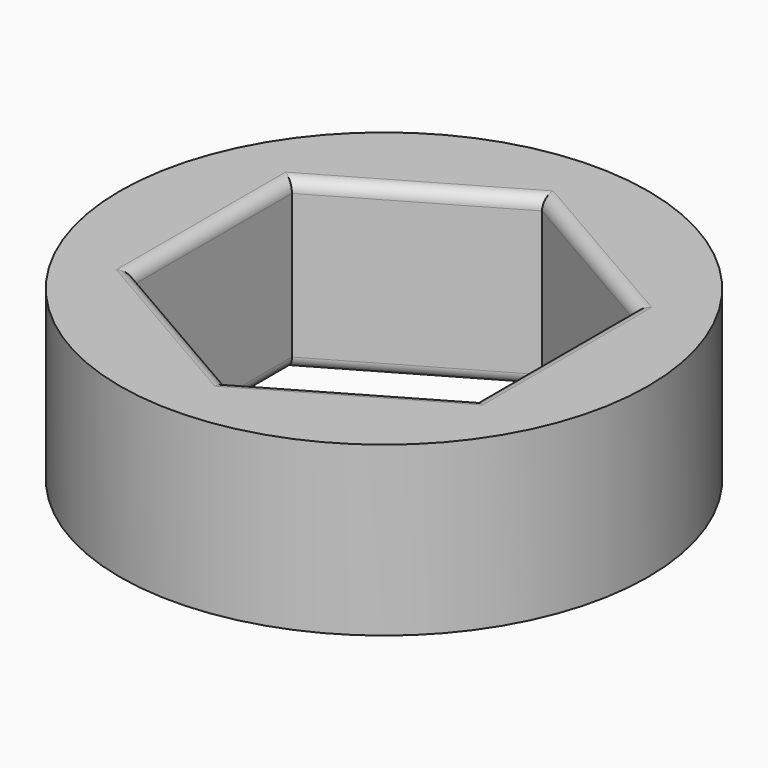
from build123d import *

# Parameters (mm, degrees)
F0_R     = 279.4
F1_DEPTH = 177.8
F2_R     = 12.7
F3_R     = 12.7


with BuildPart() as f1:
    # F0 (on Top) → F1 (new body)
    with BuildSketch(Plane.XY):
        Circle(F0_R)
        Polygon((0, 208.97193), (180.975, 104.485965), (180.975, -104.485965), (0, -208.97193), (-180.975, -104.485965), (-180.975, 104.485965), align=None, mode=Mode.SUBTRACT)
    extrude(amount=F1_DEPTH)

    # F2
    f2_edges = [f1.edges().sort_by_distance(p)[0] for p in [
        (-90.4875, 156.728947, 177.8),
        (90.4875, 156.728947, 177.8),
        (-180.975, 0, 177.8),
        (-90.4875, -156.728947, 177.8),
        (90.4875, -156.728947, 177.8),
        (180.975, 0, 177.8),
    ]]
    fillet(f2_edges, radius=F2_R)

    # F3
    f3_edges = [f1.edges().sort_by_distance(p)[0] for p in [
        (-180.975, 0, 0),
        (-90.4875, -156.728947, 0),
        (90.4875, -156.728947, 0),
        (180.975, 0, 0),
        (90.4875, 156.728947, 0),
        (-90.4875, 156.728947, 0),
    ]]
    fillet(f3_edges, radius=F3_R)


solid = f1.part
